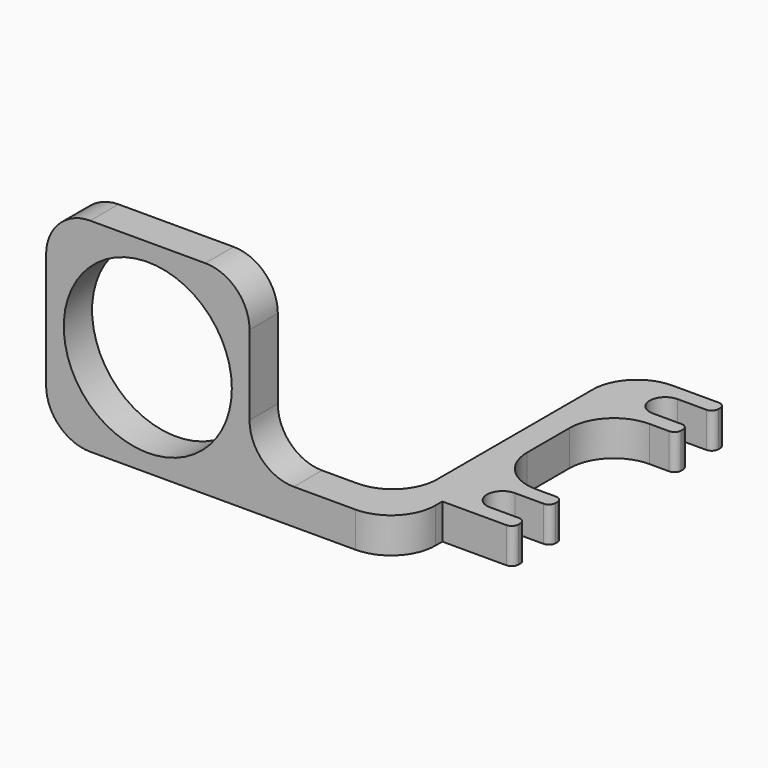
from build123d import *

# Parameters (mm, degrees)
F1_DEPTH = 4
F0_W     = 23
F0_H     = 4
F0_W_2   = 15
F0_H_2   = 1
F2_DEPTH = 23
F3_R     = 9.5
F4_DEPTH = 25
F5_R     = 5
F6_R     = 5
F7_R     = 0.75


with BuildPart() as f1:
    # F0 (on Top) → F1 (new body)
    with BuildSketch(Plane.XY):
        Polygon((-8.587917, 10.685558), (-11.587917, 10.685558), (-11.587917, -21.314442), (-8.587917, -21.314442), (-8.587917, -19.314442), (-8.587917, -12.314442), (-8.587917, 3.685558), align=None)
        with BuildLine():
            Line((-0.587917, -12.314442), (-8.587917, -12.314442))
            Line((-8.587917, -12.314442), (-8.587917, -19.314442))
            Line((-8.587917, -19.314442), (-0.587917, -19.314442))
            Line((-0.587917, -19.314442), (-0.587917, -17.560003))
            Line((-0.587917, -17.560003), (-4.463338, -17.560003))
            ThreePointArc((-4.463338, -17.560003), (-4.587917, -17.564442), (-4.712495, -17.560003))
            ThreePointArc((-4.712495, -17.560003), (-6.336806, -15.752114), (-4.587917, -14.064442))
            Line((-4.587917, -14.064442), (-0.587917, -14.064442))
            Line((-0.587917, -14.064442), (-0.587917, -12.314442))
        make_face()
        with BuildLine():
            Line((-0.587917, 10.685558), (-8.587917, 10.685558))
            Line((-8.587917, 10.685558), (-8.587917, 3.685558))
            Line((-8.587917, 3.685558), (-0.587917, 3.685558))
            Line((-0.587917, 3.685558), (-0.587917, 5.436083))
            Line((-0.587917, 5.436083), (-4.545018, 5.436083))
            ThreePointArc((-4.545018, 5.436083), (-4.587917, 5.435558), (-4.630815, 5.436083))
            ThreePointArc((-4.630815, 5.436083), (-6.337785, 7.207009), (-4.587917, 8.935558))
            Line((-4.587917, 8.935558), (-0.587917, 8.935558))
            Line((-0.587917, 8.935558), (-0.587917, 10.685558))
        make_face()
        Polygon((-8.587917, -21.314442), (-11.587917, -21.314442), (-25.587917, -21.314442), (-25.587917, -25.314442), (-8.587917, -25.314442), align=None)
    extrude(amount=F1_DEPTH)

    # F0 (on Top) → F2 (join)
    with BuildSketch(Plane.XY):
        with Locations((-37.087917, -23.314442)):
            Rectangle(F0_W, F0_H)
        with Locations((-37.087917, -23.314442)):
            Rectangle(F0_W_2, F0_H_2, mode=Mode.SUBTRACT)
        with Locations((-37.087917, -23.314442)):
            Rectangle(F0_W_2, F0_H_2)
    extrude(amount=F2_DEPTH)

    # F3 (on face) → F4 (cut)
    with BuildSketch(Plane.XZ.offset(25.314442)):
        with Locations((-37.087917, 11.5)):
            Circle(F3_R)
    extrude(amount=-F4_DEPTH, mode=Mode.SUBTRACT)

    # F5
    f5_edges = [f1.edges().sort_by_distance(p)[0] for p in [
        (-48.587917, -23.314442, 23),
        (-25.587917, -23.314442, 23),
        (-48.587917, -23.314442, 0),
        (-25.587917, -23.314442, 4),
    ]]
    fillet(f5_edges, radius=F5_R)

    # F6
    f6_edges = [f1.edges().sort_by_distance(p)[0] for p in [
        (-8.587917, -25.314442, 2),
        (-11.587917, -21.314442, 2),
        (-8.587917, -12.314442, 2),
        (-8.587917, 3.685558, 2),
        (-11.587917, 10.685558, 2),
    ]]
    fillet(f6_edges, radius=F6_R)

    # F7
    f7_edges = [f1.edges().sort_by_distance(p)[0] for p in [
        (-0.587917, 10.685558, 2),
        (-0.587917, 8.935558, 2),
        (-0.587917, 5.436083, 2),
        (-0.587917, 3.685558, 2),
        (-0.587917, -12.314442, 2),
        (-0.587917, -14.064442, 2),
        (-0.587917, -17.560003, 2),
        (-0.587917, -19.314442, 2),
    ]]
    fillet(f7_edges, radius=F7_R)


solid = f1.part
